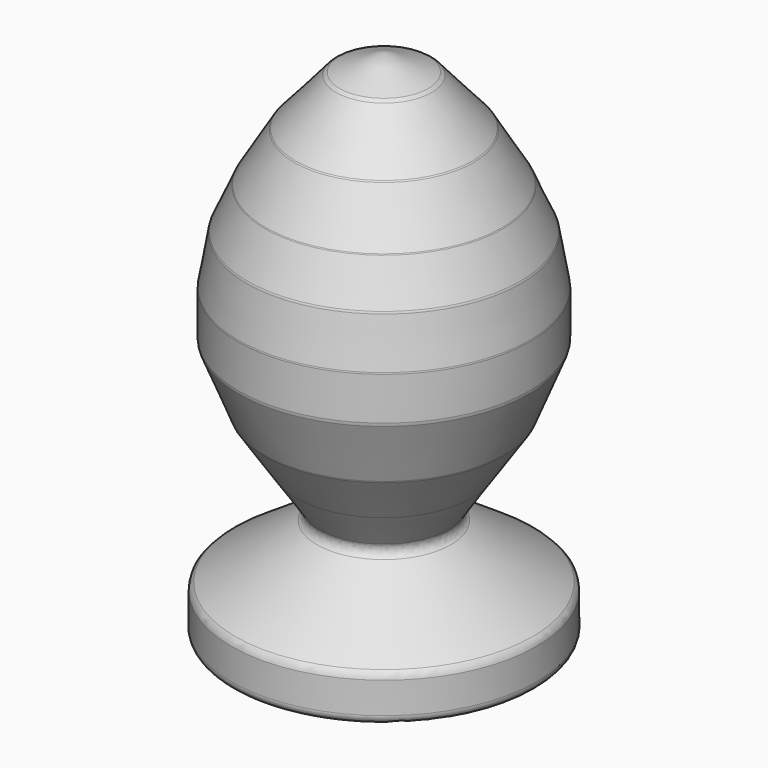
from build123d import *

# Parameters (mm, degrees)
F2_R = 5.08


with BuildPart() as f1:
    # F0 (on Front) → F1 (revolve)
    with BuildSketch(Plane.XZ):
        Polygon((26.503066, 283.759713), (0, 294.11453), (0, 0), (87.615736, 0), (87.39959, 25.638381), (34.229953, 61.084811), (50.386176, 85.670367), (68.649732, 113.065697), (83.401062, 149.592802), (83.401062, 175.583258), (78.483954, 203.681022), (67.947291, 227.564156), (51.08862, 255.661905), align=None)
    revolve(axis=Axis((0, 0, 147.057265), (0, 0, -1)))

    # F2
    f2_edges = [f1.edges().sort_by_distance(p)[0] for p in [
        (-51.08862, 0, 255.661905),
        (-67.947291, 0, 227.564156),
        (-83.401062, 0, 175.583258),
        (-78.483954, 0, 203.681022),
        (-83.401062, 0, 149.592802),
        (-26.503066, 0, 283.759713),
        (-68.649732, 0, 113.065697),
        (-50.386176, 0, 85.670367),
        (-34.229953, 0, 61.084811),
        (-87.39959, 0, 25.638381),
        (-87.615736, 0, 0),
    ]]
    fillet(f2_edges, radius=F2_R)


solid = f1.part
